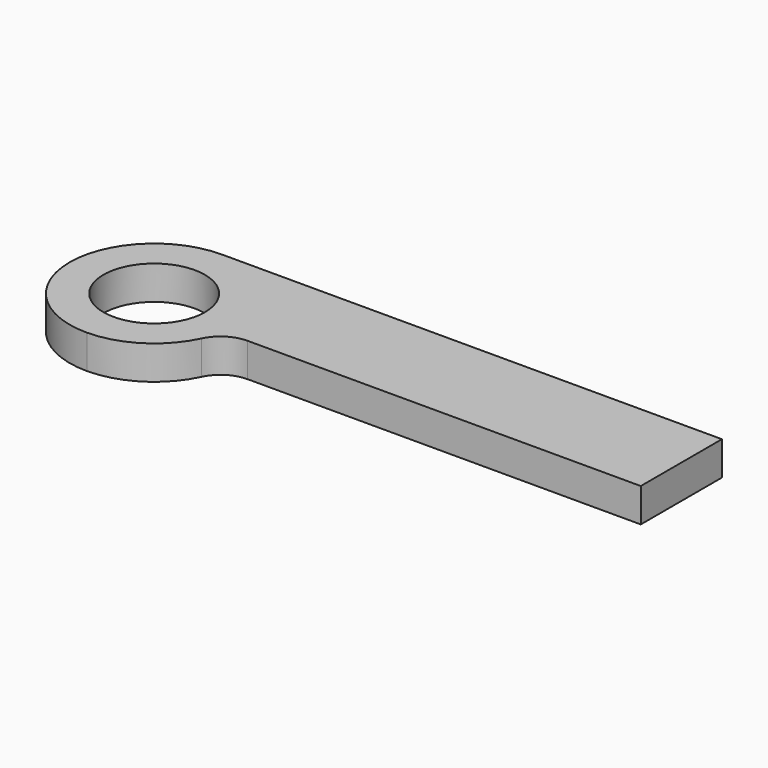
from build123d import *

# Parameters (mm, degrees)
F0_R     = 7.5
F1_DEPTH = 5


with BuildPart() as f1:
    # F0 (on Top) → F1 (new body)
    with BuildSketch(Plane.XY):
        with BuildLine():
            Line((52.206931, 24.999788), (-21.739577, 24.999788))
            ThreePointArc((-21.739577, 24.999788), (-34.239524, 12.463405), (-21.66681, 0))
            ThreePointArc((-21.66681, 0), (-15.027254, 1.954897), (-10.445656, 7.142797))
            ThreePointArc((-10.445656, 7.142797), (-8.600729, 9.225753), (-5.928088, 10))
            Line((-5.928088, 10), (52.206931, 10))
            Line((52.206931, 10), (52.206931, 24.999788))
        make_face()
        with Locations((-21.739577, 12.499788)):
            Circle(F0_R, mode=Mode.SUBTRACT)
    extrude(amount=F1_DEPTH)


solid = f1.part
